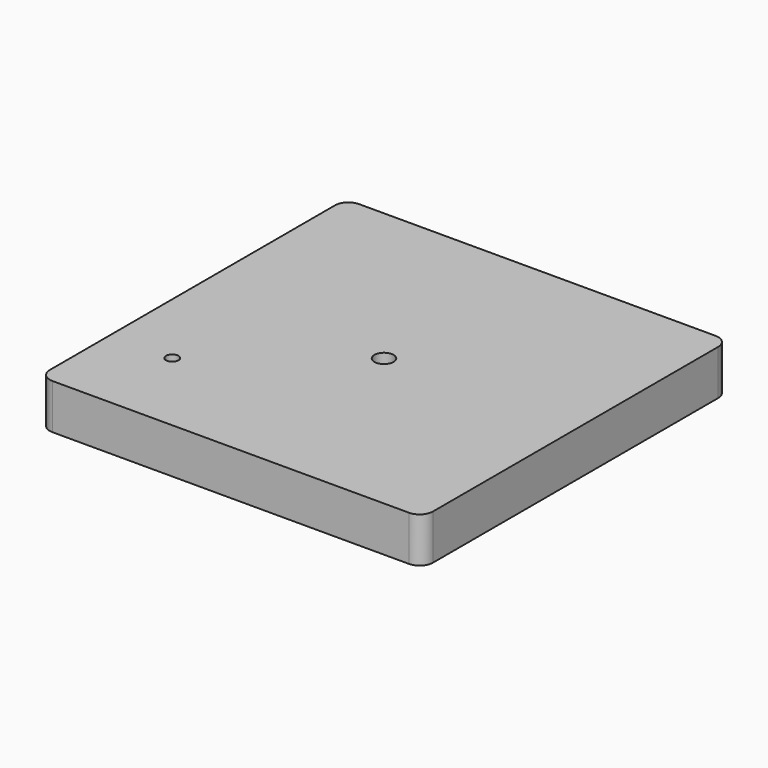
from build123d import *

# Parameters (mm, degrees)
F0_W     = 215.9
F0_H     = 215.9
F1_DEPTH = 25.4
F3_D     = 10.8
F4_R     = 7.5
F6_D     = 7


with BuildPart() as f1:
    # F0 (on Top) → F1 (new body)
    with BuildSketch(Plane.XY):
        Rectangle(F0_W, F0_H)
    extrude(amount=F1_DEPTH)

    # F3 (through all)
    with Locations(Plane.XY.offset(25.4)):
        with Locations((0, 0)):
            Hole(F3_D / 2)

    # F4
    f4_edges = [f1.edges().sort_by_distance(p)[0] for p in [
        (-107.95, -107.95, 12.7),
        (107.95, -107.95, 12.7),
        (107.95, 107.95, 12.7),
        (-107.95, 107.95, 12.7),
    ]]
    fillet(f4_edges, radius=F4_R)

    # F6 (through all)
    with Locations(Plane.XY.offset(25.4)):
        with Locations((-72.95, -57.95)):
            Hole(F6_D / 2)


solid = f1.part
